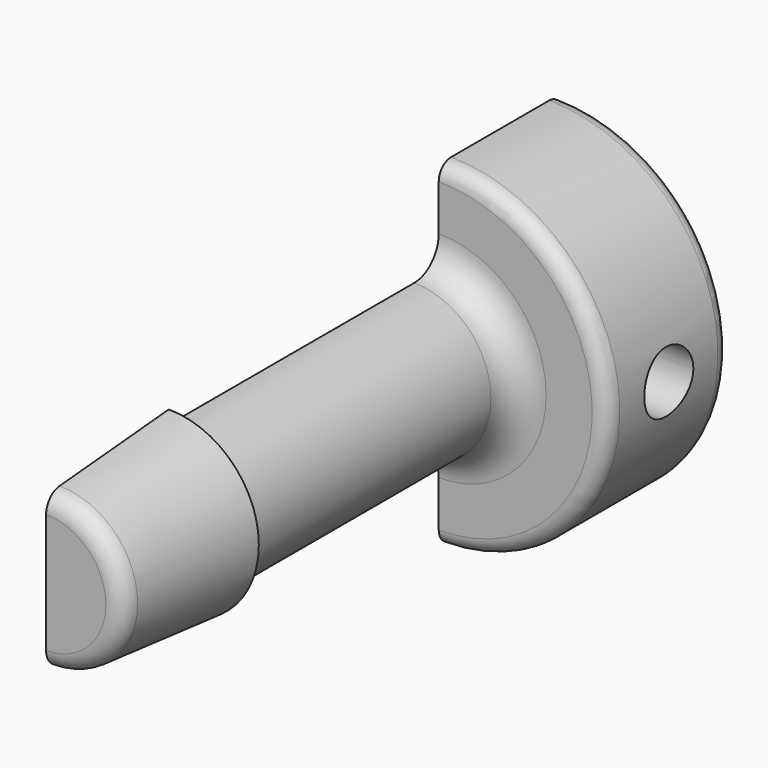
from build123d import *

# Parameters (mm, degrees)
REVOLUTION001_ANGLE = 180
FILLET003_R         = 0.6
FILLET004_R         = 1
FILLET005_R         = 0.5
SKETCH001_R         = 1
POCKET_DEPTH        = 0.001
POCKET_DEPTH_BACK   = 5.501


with BuildPart() as part:
    # Sketch002 → Revolution001 (revolve)
    with BuildSketch(Plane.YZ):
        Polygon((-10.5, 2.5), (-5.5, 2.935), (-5.5, 2.5), (5.5, 2.5), (5.5, 5.5), (10.5, 5.5), (10.5, 0), (-10.5, 0), align=None)
    revolve(axis=Axis((0, 0, 0), (0, 1, 0)), revolution_arc=REVOLUTION001_ANGLE)

    # Fillet003
    fillet003_edges = [part.edges().sort_by_distance(p)[0] for p in [
        (2.5, -10.5, 0),
    ]]
    fillet(fillet003_edges, radius=FILLET003_R)

    # Fillet004
    fillet004_edges = [part.edges().sort_by_distance(p)[0] for p in [
        (2.5, 5.5, 0),
    ]]
    fillet(fillet004_edges, radius=FILLET004_R)

    # Fillet005
    fillet005_edges = [part.edges().sort_by_distance(p)[0] for p in [
        (5.5, 5.5, 0),
        (5.5, 10.5, 0),
    ]]
    fillet(fillet005_edges, radius=FILLET005_R)

    # Sketch001 → Pocket (cut, two sides)
    with BuildSketch(Plane.YZ) as pocket_sk:
        with Locations((8, 0)):
            Circle(SKETCH001_R)
    extrude(amount=-POCKET_DEPTH, mode=Mode.SUBTRACT)
    extrude(pocket_sk.sketch, amount=POCKET_DEPTH_BACK, mode=Mode.SUBTRACT)


solid = part.part
